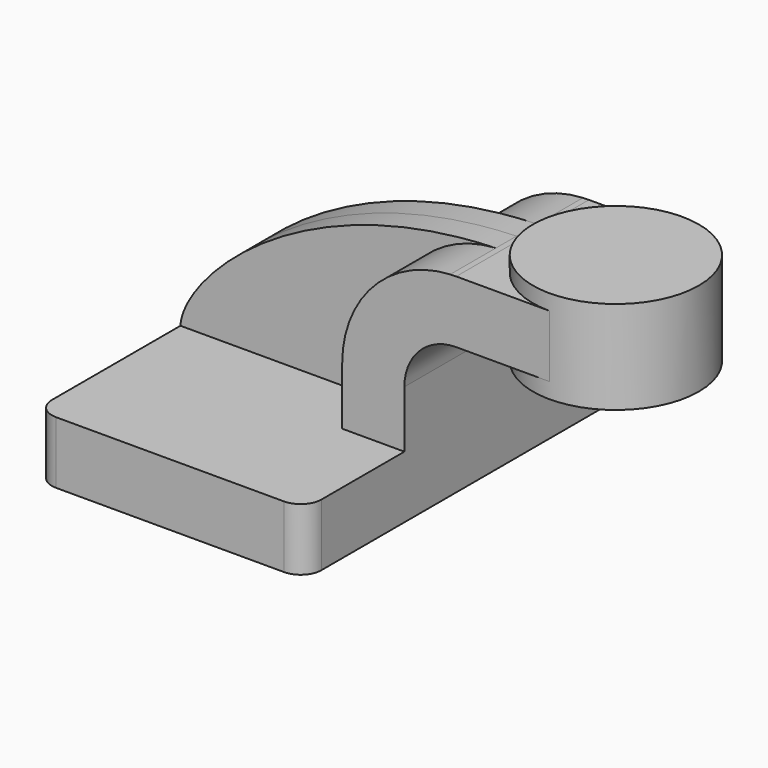
from build123d import *

# Parameters (mm, degrees)
F1_DEPTH = 63.5
F2_DEPTH = 7.9375
F0_W     = 25.4
F0_H     = 19.05
F3_DEPTH = 25.4
F5_R     = 6.35


with BuildPart() as f1:
    # F0 (on Front) → F1 (new body, symmetric)
    with BuildSketch(Plane.XZ):
        Polygon((-55.0595465731, -9.525), (27.4904534269, -9.525), (27.4904534269, 9.525), (8.4404534269, 9.525), (-55.0595465731, 9.525), align=None)
    extrude(amount=F1_DEPTH, both=True)

    # F0 (on Front) → F2 (join, symmetric)
    with BuildSketch(Plane.XZ):
        with BuildLine():
            add(Edge.make_bspline(
                [(-55.0595465731, 9.525), (-54.3032997663, 23.5735103389), (-19.6897995007, 59.915243166), (41.5291236908, 61.8768901827)],
                knots=[0, 0, 0, 0, 110.4053768548, 110.4053768548, 110.4053768548, 110.4053768548], degree=3))
            Line((-55.0595465731, 9.525), (8.4404534269, 9.525))
            Line((8.4404534269, 9.525), (8.4404534269, 27.0002))
            ThreePointArc((8.4404534269, 27.0002), (18.0288253853, 51.0378975703), (41.5291236908, 61.8768901827))
        make_face()
    extrude(amount=F2_DEPTH, both=True)

    # F0 (on Front) → F3 (join, symmetric)
    with BuildSketch(Plane.XZ):
        with BuildLine():
            Line((8.4404534269, 9.525), (27.4904534269, 9.525))
            Line((27.4904534269, 9.525), (27.4904534269, 27.0002))
            ThreePointArc((27.4904534269, 27.0002), (32.1401332756, 38.2255201513), (43.3654534269, 42.8752))
            Line((43.3654534269, 42.8752), (46.5404534269, 42.8752))
            Line((46.5404534269, 42.8752), (46.5404534269, 61.9252))
            Line((46.5404534269, 61.9252), (43.3654534269, 61.9252))
            add(Edge.make_bspline(
                [(41.5291236908, 61.8768901827), (42.1385989828, 61.8964196897), (42.7507112801, 61.9125416031), (43.3654534269, 61.9252)],
                knots=[110.4053768548, 110.4053768548, 110.4053768548, 110.4053768548, 111.5045361635, 111.5045361635, 111.5045361635, 111.5045361635], degree=3))
            ThreePointArc((41.5291236908, 61.8768901827), (18.0288253853, 51.0378975703), (8.4404534269, 27.0002))
            Line((8.4404534269, 27.0002), (8.4404534269, 9.525))
        make_face()
        with Locations((59.2404534269, 52.4002)):
            Rectangle(F0_W, F0_H)
    extrude(amount=F3_DEPTH, both=True)

    # F0 (on Front) → F4 (revolve)
    with BuildSketch(Plane.XZ):
        Polygon((71.9404534269, 61.9252), (71.9404534269, 42.8752), (71.9404534269, 38.1), (97.3404534269, 38.1), (97.3404534269, 66.675), (71.9404534269, 66.675), align=None)
    revolve(axis=Axis((71.9404534269, 0, 52.3875), (0, 0, -1)))

    # F5
    f5_edges = [f1.edges().sort_by_distance(p)[0] for p in [
        (-55.059547, -63.5, 0),
        (27.490453, -63.5, 0),
        (-55.059547, 63.5, 0),
        (27.490453, 63.5, 0),
    ]]
    fillet(f5_edges, radius=F5_R)


solid = f1.part
